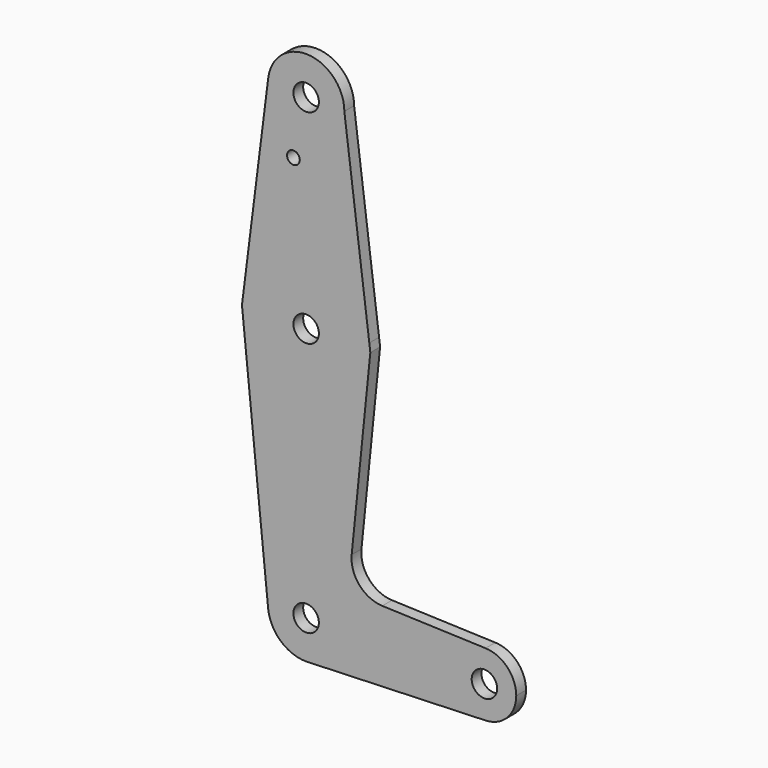
from build123d import *

# Parameters (mm, degrees)
F0_R     = 3.175
F0_R_2   = 1.5875
F1_DEPTH = 3.048


with BuildPart() as f1:
    # F0 (on Front) → F1 (new body)
    with BuildSketch(Plane.XZ):
        with BuildLine():
            ThreePointArc((-15.7504882475, 1.9843752081), (-0.9941388413, -15.8438414838), (15.875, 0))
            ThreePointArc((15.875, 0), (15.8430821393, 1.0061676438), (15.7474569036, 2.0082893388))
            ThreePointArc((15.7474569036, 2.0082893388), (-0.0120527455, 15.8749954246), (-15.7504882475, 1.9843752081))
        make_face()
        Circle(F0_R, mode=Mode.SUBTRACT)
        with BuildLine():
            ThreePointArc((15.7474569036, 2.0082893388), (15.8430821393, 1.0061676438), (15.875, 0))
            ThreePointArc((15.875, 0), (-0.9941388413, -15.8438414838), (-15.7504882475, 1.9843752081))
            Line((-15.7504882475, 1.9843752081), (-16.0004960241, 0))
            Line((-16.0004960241, 0), (-9.4765871109, -64.4591255022))
            ThreePointArc((-9.4765871109, -64.4591255022), (-0.4801732856, -53.9871109217), (9.525, -63.5))
            ThreePointArc((9.525, -63.5), (6.9705567315, -69.9912990883), (0.6773435479, -73.000885786))
            Line((0.6773435479, -73.000885786), (44.7324052746, -71.4324746146))
            ThreePointArc((44.7324052746, -71.4324746146), (36.5125, -63.5), (44.7324052746, -55.5675253854))
            Line((44.7324052746, -55.5675253854), (18.9822637558, -54.6507905531))
            ThreePointArc((18.9822637558, -54.6507905531), (13.2731893708, -51.9307973584), (11.3553673773, -45.9046997726))
            Line((11.3553673773, -45.9046997726), (16.0035761028, 0))
            Line((16.0035761028, 0), (15.7474569036, 2.0082893388))
        make_face()
        with BuildLine():
            ThreePointArc((-15.7504882475, 1.9843752081), (-0.0120527455, 15.8749954246), (15.7474569036, 2.0082893388))
            Line((15.7474569036, 2.0082893388), (9.525, 50.8))
            ThreePointArc((9.525, 50.8), (-0.596483242, 41.2936951058), (-9.4502929642, 51.990625))
            Line((-9.4502929642, 51.990625), (-15.7504882475, 1.9843752081))
        make_face()
        with Locations((-3.175, 36.5252)):
            Circle(F0_R_2, mode=Mode.SUBTRACT)
        with BuildLine():
            ThreePointArc((-9.4502929642, 51.990625), (-0.596483242, 41.2936951058), (9.525, 50.8))
            ThreePointArc((9.525, 50.8), (0.596483242, 60.3063048942), (-9.4502929642, 51.990625))
        make_face()
        with Locations((0, 50.8)):
            Circle(F0_R, mode=Mode.SUBTRACT)
        with BuildLine():
            ThreePointArc((9.525, -63.5), (-0.4801732856, -53.9871109217), (-9.4765871109, -64.4591255022))
            ThreePointArc((-9.4765871109, -64.4591255022), (-6.3870945895, -70.5661621623), (0, -73.025))
            Line((0, -73.025), (0.6773435479, -73.000885786))
            ThreePointArc((0.6773435479, -73.000885786), (6.9705567315, -69.9912990883), (9.525, -63.5))
        make_face()
        with Locations((0, -63.5)):
            Circle(F0_R, mode=Mode.SUBTRACT)
        with BuildLine():
            Line((0.6773435479, -73.000885786), (0, -73.025))
            ThreePointArc((0, -73.025), (0.3388863295, -73.0189695375), (0.6773435479, -73.000885786))
        make_face()
        with BuildLine():
            ThreePointArc((52.3875, -63.5), (50.1616327839, -57.9880895153), (44.7324052746, -55.5675253854))
            ThreePointArc((44.7324052746, -55.5675253854), (36.5125, -63.5), (44.7324052746, -71.4324746146))
            ThreePointArc((44.7324052746, -71.4324746146), (50.1616327839, -69.0119104847), (52.3875, -63.5))
        make_face()
        with Locations((44.45, -63.5)):
            Circle(F0_R, mode=Mode.SUBTRACT)
    extrude(amount=F1_DEPTH)


solid = f1.part
